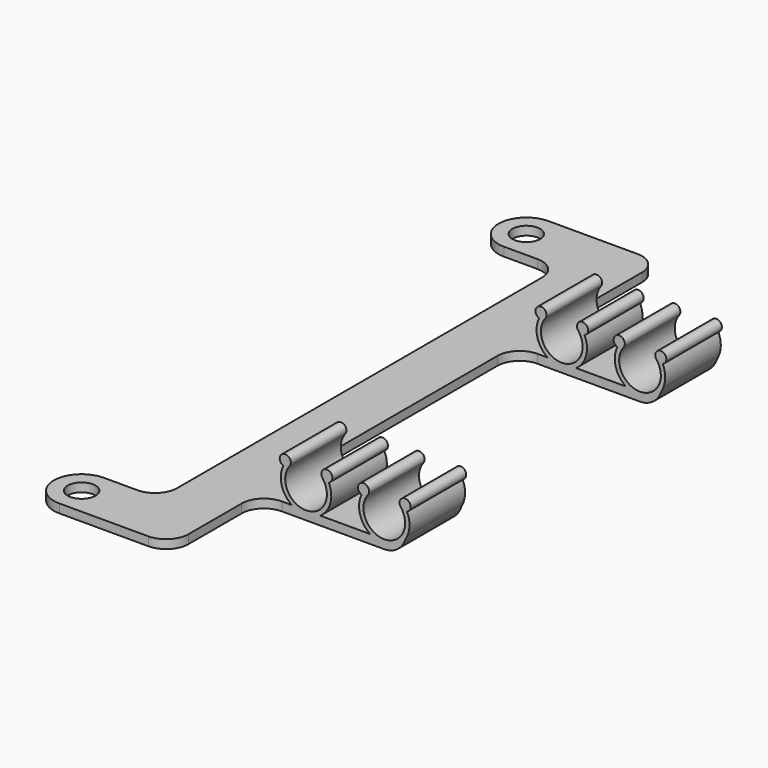
from build123d import *

# Parameters (mm, degrees)
F0_R      = 3.175
F1_DEPTH  = 2
F3_DEPTH  = 88.9
F5_DEPTH  = 88.9
F6_W      = 44.45
F6_H      = 57.15
F7_DEPTH  = 25.4
F8_W      = 44.45
F8_H      = 57.15
F9_DEPTH  = 25.4
F10_R     = 4.7625
F11_DEPTH = 88.9
F12_R     = 5.08
F13_R     = 5.08


with BuildPart() as f1:
    # F0 (on Top) → F1 (new body)
    with BuildSketch(Plane.XY):
        with BuildLine():
            ThreePointArc((6.35, 12.7), (0, 6.35), (6.35, 0))
            Line((6.35, 0), (31.75, 0))
            Line((31.75, 0), (31.75, 25.4))
            Line((31.75, 25.4), (63.5, 25.4))
            Line((63.5, 25.4), (63.5, 41.275))
            Line((63.5, 41.275), (31.75, 41.275))
            Line((31.75, 41.275), (31.75, 98.425))
            Line((31.75, 98.425), (63.5, 98.425))
            Line((63.5, 98.425), (63.5, 114.3))
            Line((63.5, 114.3), (31.75, 114.3))
            Line((31.75, 114.3), (31.75, 139.7))
            Line((31.75, 139.7), (6.35, 139.7))
            ThreePointArc((6.35, 139.7), (0, 133.35), (6.35, 127))
            Line((6.35, 127), (19.05, 127))
            Line((19.05, 127), (19.05, 12.7))
            Line((19.05, 12.7), (6.35, 12.7))
        make_face()
        with Locations((6.35, 6.35)):
            Circle(F0_R, mode=Mode.SUBTRACT)
        with Locations((6.35, 133.35)):
            Circle(F0_R, mode=Mode.SUBTRACT)
    extrude(amount=F1_DEPTH)

    # F2 (on face) → F3 (join, through all)
    with BuildSketch(Plane.XZ.offset(-25.4)):
        with BuildLine():
            ThreePointArc((56.5092743605, 9.7027625733), (55.1601848792, 11.7076454488), (55.0783732507, 9.2925047427))
            ThreePointArc((55.0783732507, 9.2925047427), (60.2557743605, 1), (65.4331754703, 9.2925047427))
            ThreePointArc((65.4331754703, 9.2925047427), (65.3513638418, 11.7076454488), (64.0022743605, 9.7027625733))
            ThreePointArc((64.0022743605, 9.7027625733), (60.2557743605, 2), (56.5092743605, 9.7027625733))
        make_face()
        with BuildLine():
            ThreePointArc((46.1272743605, 9.7027625733), (42.3807743605, 2), (38.6342743605, 9.7027625733))
            ThreePointArc((38.6342743605, 9.7027625733), (37.2851848792, 11.7076454488), (37.2033732507, 9.2925047427))
            ThreePointArc((37.2033732507, 9.2925047427), (42.3807743605, 1), (47.5581754703, 9.2925047427))
            ThreePointArc((47.5581754703, 9.2925047427), (47.4763638418, 11.7076454488), (46.1272743605, 9.7027625733))
        make_face()
    extrude(amount=-F3_DEPTH)

    # F4 (on face) → F5 (join, through all)
    with BuildSketch(Plane.XZ.offset(-25.4)):
        Polygon((63.5, 0), (65.4964292905, 4.3662650043), (63.5, 2), align=None)
    extrude(amount=-F5_DEPTH)

    # F6 (on face) → F7 (cut)
    with BuildSketch(Plane(origin=(0, 0, 0), x_dir=(1, 0, 0), z_dir=(0, 0, -1))):
        with Locations((53.975, -69.85)):
            Rectangle(F6_W, F6_H)
    extrude(amount=-F7_DEPTH, mode=Mode.SUBTRACT)

    # F8 (on face) → F9 (cut)
    with BuildSketch(Plane.XY.offset(2)):
        with Locations((41.275, 69.85)):
            Rectangle(F8_W, F8_H)
    extrude(amount=F9_DEPTH, mode=Mode.SUBTRACT)

    # F10 (on face) → F11 (cut, through all)
    with BuildSketch(Plane.XZ.offset(-25.4)):
        with Locations((42.3807743605, 6.7625)):
            Circle(F10_R)
        with Locations((60.2557743605, 6.7625)):
            Circle(F10_R)
    extrude(amount=-F11_DEPTH, mode=Mode.SUBTRACT)

    # F12
    f12_edges = [f1.edges().sort_by_distance(p)[0] for p in [
        (31.75, 0, 1),
        (31.75, 25.4, 1),
        (31.75, 41.275, 1),
        (31.75, 98.425, 1),
        (31.75, 114.3, 1),
        (31.75, 139.7, 1),
        (19.05, 127, 1),
        (19.05, 12.7, 1),
    ]]
    fillet(f12_edges, radius=F12_R)

    # F13
    f13_edges = [f1.edges().sort_by_distance(p)[0] for p in [
        (63.5, 33.3375, 0),
        (63.5, 106.3625, 0),
    ]]
    fillet(f13_edges, radius=F13_R)


solid = f1.part
